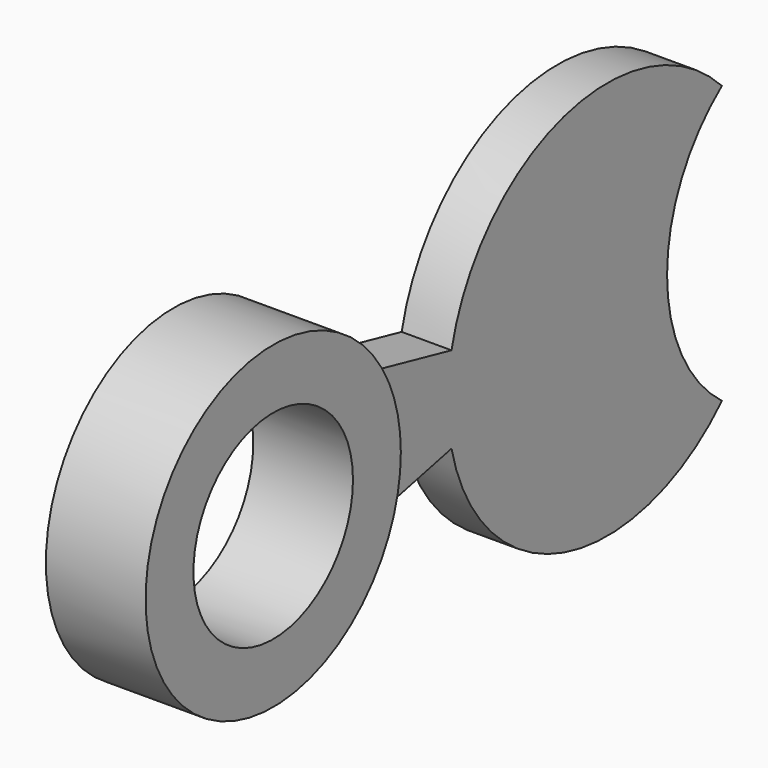
from build123d import *

# Parameters (mm, degrees)
F0_R     = 10
F1_DEPTH = 5
F2_DEPTH = 5
F3_DEPTH = 2.5


with BuildPart() as f1:
    # F0 (on Right) → F1 (new body, symmetric)
    with BuildSketch(Plane.YZ):
        Circle(F0_R)
        with BuildLine():
            ThreePointArc((14.492753, -6.779388), (15.618644, -3.472459), (16, 0))
            ThreePointArc((16, 0), (15.618644, 3.472459), (14.492753, 6.779388))
            ThreePointArc((14.492753, 6.779388), (-16, 0), (14.492753, -6.779388))
        make_face()
        Circle(F0_R, mode=Mode.SUBTRACT)
    extrude(amount=F1_DEPTH, both=True)

    # F0 (on Right) → F2 (cut, symmetric)
    with BuildSketch(Plane.YZ):
        Circle(F0_R)
    extrude(amount=F2_DEPTH, both=True, mode=Mode.SUBTRACT)

    # F0 (on Right) → F3 (join, symmetric)
    with BuildSketch(Plane.YZ):
        with BuildLine():
            ThreePointArc((14.492753, 6.779388), (15.618644, 3.472459), (16, 0))
            ThreePointArc((16, 0), (15.618644, -3.472459), (14.492753, -6.779388))
            Line((14.492753, -6.779388), (25.476259, -4.338609))
            ThreePointArc((25.476259, -4.338609), (39.567862, -19.248166), (59.375, -13.905372))
            ThreePointArc((59.375, -13.905372), (52.5, 0), (59.375, 13.905372))
            ThreePointArc((59.375, 13.905372), (39.567862, 19.248166), (25.476259, 4.338609))
            Line((25.476259, 4.338609), (14.492753, 6.779388))
        make_face()
    extrude(amount=F3_DEPTH, both=True)


solid = f1.part
